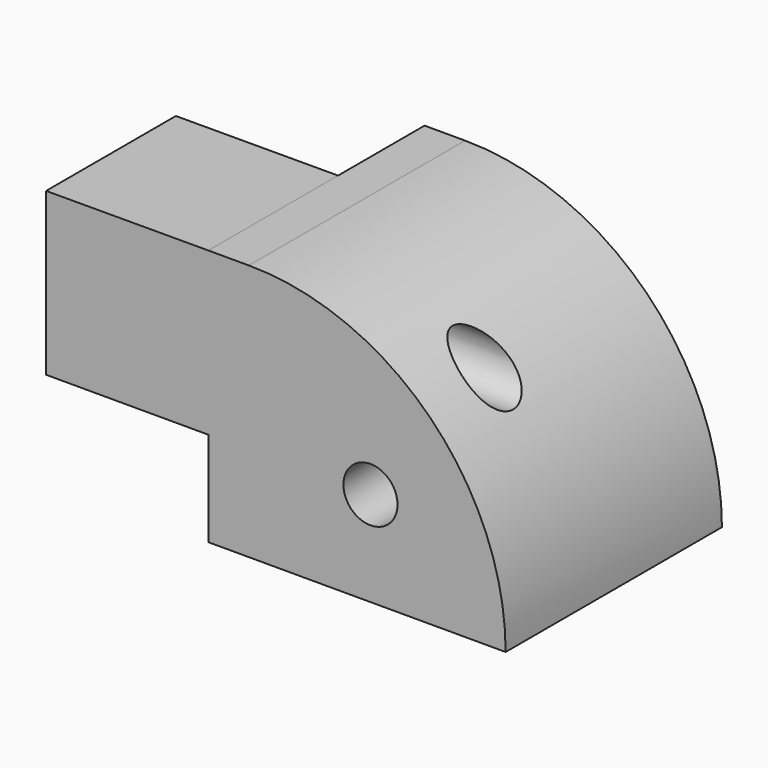
from build123d import *

# Parameters (mm, degrees)
F1_DEPTH = 127
F3_DEPTH = 76.2
F4_W     = 76.2001280264
F4_H     = 50.8
F5_DEPTH = 76.2
F7_D     = 25.4
F9_D     = 25.4


with BuildPart() as f1:
    # F0 (on Front) → F1 (new body)
    with BuildSketch(Plane.XZ):
        Polygon((0, 0), (0, 120.65), (-19.05, 120.65), (-95.25, 120.5103173852), (-95.25, 0), (-19.05, 0), align=None)
        with BuildLine():
            ThreePointArc((120.65, 0), (85.3124331502, 85.3124331502), (0, 120.65))
            Line((0, 120.65), (0, 0))
            Line((0, 0), (120.65, 0))
        make_face()
    extrude(amount=F1_DEPTH)

    # F2 (on face) → F3 (cut)
    with BuildSketch(Plane(origin=(-95.25, 0, 0), x_dir=(0, -1, 0), z_dir=(-1, 0, 0))):
        Polygon((50.8, 44.45), (50.8, 120.5103173852), (0, 120.5103173852), (0, 0), (127, 0), (127, 44.45), align=None)
    extrude(amount=-F3_DEPTH, mode=Mode.SUBTRACT)

    # F4 (on face) → F5 (cut)
    with BuildSketch(Plane(origin=(-0.22122741, 0, 120.6845151206), x_dir=(0.9999983199, 0, 0.0018331021), z_dir=(-0.0018331021, 0, 0.9999983199))):
        with Locations((-56.9288682381, -25.4)):
            Rectangle(F4_W, F4_H)
    extrude(amount=-F5_DEPTH, mode=Mode.SUBTRACT)

    # F7 (through all)
    with Locations(Plane(origin=(-95.25, 0, 0), x_dir=(0, -1, 0), z_dir=(-1, 0, 0))):
        with Locations((88.9, 88.7603173852)):
            Hole(F7_D / 2)

    # F9 (through all)
    with Locations(Plane.XZ.offset(127)):
        with Locations((57.15, 44.45)):
            Hole(F9_D / 2)


solid = f1.part
